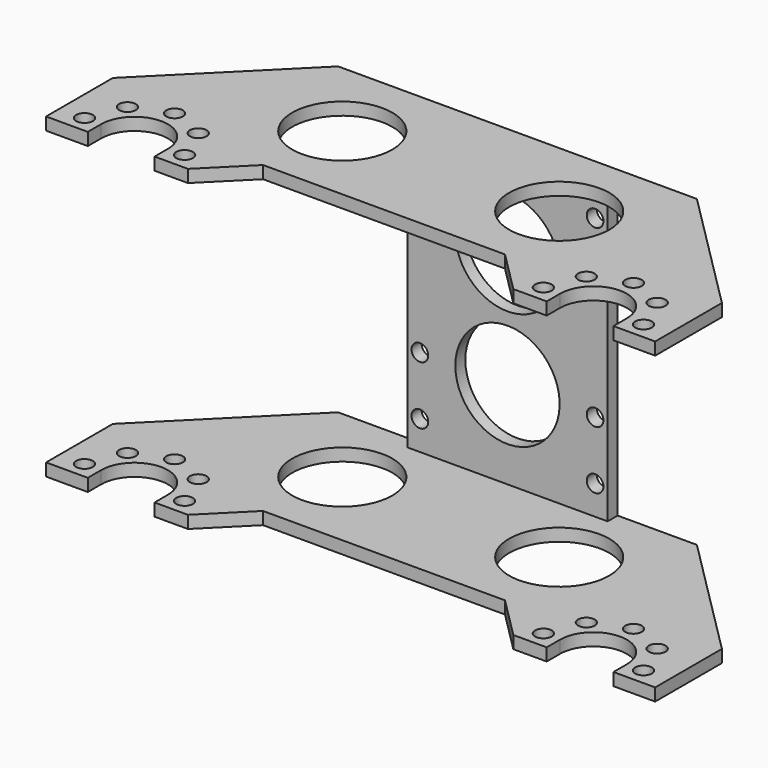
from build123d import *

# Parameters (mm, degrees)
F0_R      = 1
F1_DEPTH  = 1.5
F3_DEPTH  = 1.5
F4_W      = 24
F4_H      = 1.5
F5_DEPTH  = 17.5
F8_R      = 6
F9_DEPTH  = 38.001
F10_R     = 1
F10_R_2   = 6.25
F11_DEPTH = 1.5


with BuildPart() as f1:
    # F0 (on Top) → F1 (new body)
    with BuildSketch(Plane.XY):
        with BuildLine():
            Line((-36.5, 25), (-36.5, 0))
            Line((-36.5, 0), (-31.5, 0))
            Line((-31.5, 0), (-31.5, 2))
            ThreePointArc((-31.5, 2), (-27.5, 6), (-23.5, 2))
            Line((-23.5, 2), (-23.5, 0))
            Line((-23.5, 0), (23.5, 0))
            Line((23.5, 0), (23.5, 2))
            ThreePointArc((23.5, 2), (27.5, 6), (31.5, 2))
            Line((31.5, 2), (31.5, 0))
            Line((31.5, 0), (36.5, 0))
            Line((36.5, 0), (36.5, 25))
            Line((36.5, 25), (-36.5, 25))
        make_face()
        with Locations((-33.5, 2)):
            Circle(F0_R, mode=Mode.SUBTRACT)
        with Locations((-21.5, 2)):
            Circle(F0_R, mode=Mode.SUBTRACT)
        with Locations((-31.742641, 6.242641)):
            Circle(F0_R, mode=Mode.SUBTRACT)
        with Locations((-23.257359, 6.242641)):
            Circle(F0_R, mode=Mode.SUBTRACT)
        with Locations((-27.5, 8)):
            Circle(F0_R, mode=Mode.SUBTRACT)
        with Locations((21.5, 2)):
            Circle(F0_R, mode=Mode.SUBTRACT)
        with Locations((33.5, 2)):
            Circle(F0_R, mode=Mode.SUBTRACT)
        with Locations((23.257359, 6.242641)):
            Circle(F0_R, mode=Mode.SUBTRACT)
        with Locations((31.742641, 6.242641)):
            Circle(F0_R, mode=Mode.SUBTRACT)
        with Locations((27.5, 8)):
            Circle(F0_R, mode=Mode.SUBTRACT)
    extrude(amount=F1_DEPTH)

    # F2 (on face) → F3 (cut, through all)
    with BuildSketch(Plane.XY.offset(1.5)):
        Polygon((-36.5, 25), (-36.5, 10), (-21.5, 25), align=None)
        Polygon((36.5, 25), (21.5, 25), (36.5, 10), align=None)
        Polygon((-14.5, 5), (-19.5, 0), (19.5, 0), (14.5, 5), (0, 5), align=None)
    extrude(amount=-F3_DEPTH, mode=Mode.SUBTRACT)

    # F4 (on face) → F5 (join)
    with BuildSketch(Plane(origin=(0, 0, 0), x_dir=(1, 0, 0), z_dir=(0, 0, -1))):
        with Locations((0, -24.25)):
            Rectangle(F4_W, F4_H)
    extrude(amount=F5_DEPTH)

    # F7: F1 across plane


with BuildPart() as f1_1:
    add(f1.part)
    add(f1.part.mirror(Plane.XY.offset(-17.5)))

    # F8 (on face) → F9 (cut, through all)
    with BuildSketch(Plane(origin=(0, 0, -36.5), x_dir=(1, 0, 0), z_dir=(0, 0, -1))):
        with Locations((-13, -15)):
            Circle(F8_R)
        with Locations((13, -15)):
            Circle(F8_R)
    extrude(amount=-F9_DEPTH, mode=Mode.SUBTRACT)

    # F10 (on face) → F11 (cut, through all)
    with BuildSketch(Plane(origin=(0, 25, 0), x_dir=(-1, 0, 0), z_dir=(0, 1, 0))):
        with Locations((10.5, -10.5)):
            Circle(F10_R)
        with Locations((10.5, -31.5)):
            Circle(F10_R)
        with Locations((-10.5, -10.5)):
            Circle(F10_R)
        with Locations((-10.5, -31.5)):
            Circle(F10_R)
        with Locations((0, -10.5)):
            Circle(F10_R_2)
        with Locations((-10.5, -24.5)):
            Circle(F10_R)
        with Locations((-10.5, -3.5)):
            Circle(F10_R)
        with Locations((10.5, -3.5)):
            Circle(F10_R)
        with Locations((10.5, -24.5)):
            Circle(F10_R)
        with Locations((0, -24.5)):
            Circle(F10_R_2)
    extrude(amount=-F11_DEPTH, mode=Mode.SUBTRACT)


solid = f1_1.part
